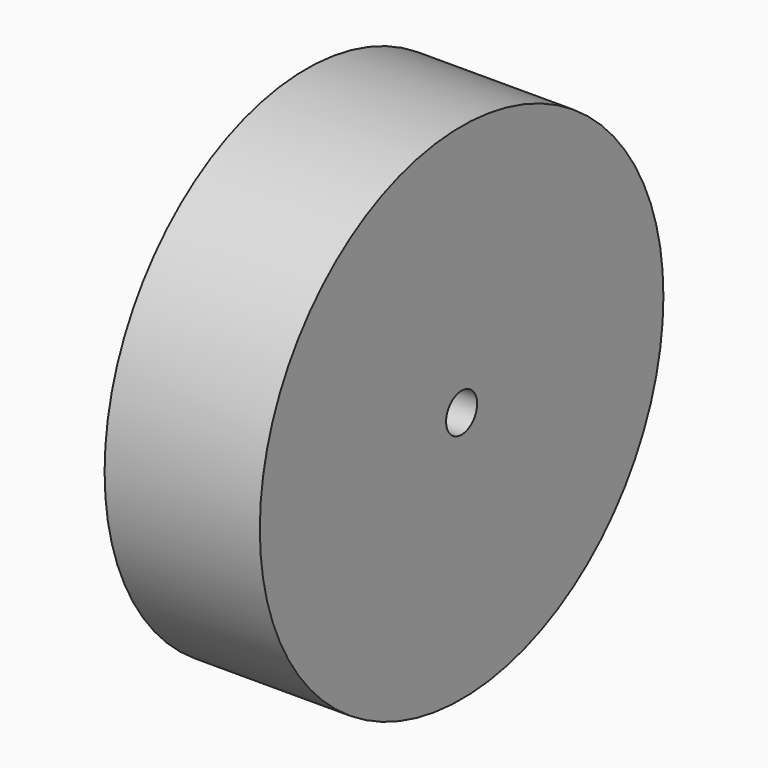
from build123d import *

# Parameters (mm, degrees)
F0_R     = 130
F1_DEPTH = 80
F2_R     = 10
F3_DEPTH = 80


with BuildPart() as f1:
    # F0 (on Right) → F1 (new body)
    with BuildSketch(Plane.YZ):
        Circle(F0_R)
    extrude(amount=F1_DEPTH)

    # F2 (on face) → F3 (cut, through all)
    with BuildSketch(Plane(origin=(0, 0, 0), x_dir=(0, -1, 0), z_dir=(-1, 0, 0))):
        Circle(F2_R)
    extrude(amount=-F3_DEPTH, mode=Mode.SUBTRACT)


solid = f1.part
